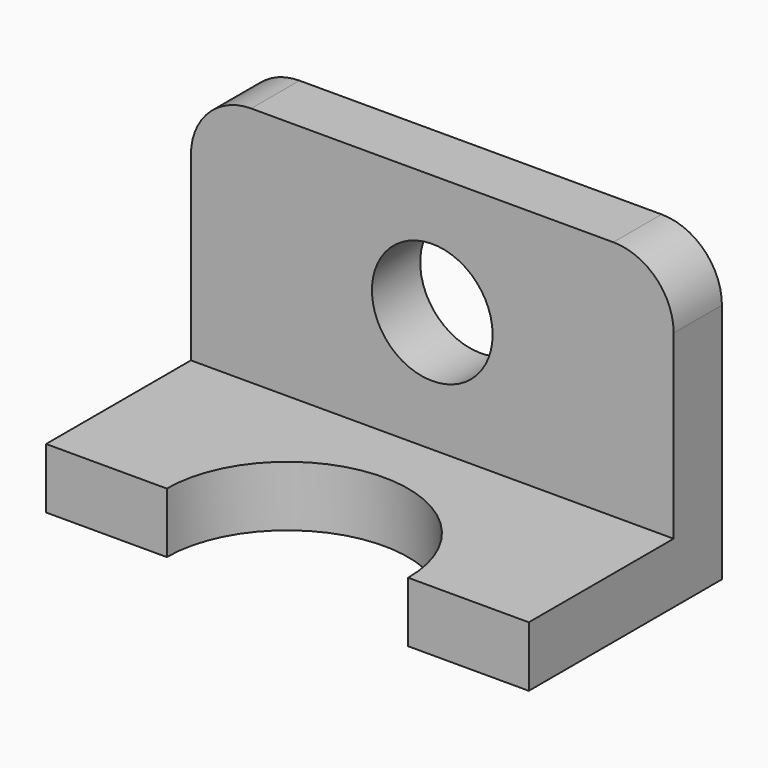
from build123d import *

# Parameters (mm, degrees)
F0_W     = 101.6
F0_H     = 63.5
F1_DEPTH = 50.8
F2_W     = 63.5
F2_H     = 76.2
F3_DEPTH = 101.601
F4_R     = 12.7
F5_DEPTH = 12.701
F6_R     = 25.4
F7_DEPTH = 12.701
F8_R     = 12.7


with BuildPart() as f1:
    # F0 (on Front) → F1 (new body)
    with BuildSketch(Plane.XZ):
        with Locations((22.687874, 31.203055)):
            Rectangle(F0_W, F0_H)
        with Locations((22.687874, 31.203055)):
            Rectangle(F0_W, F0_H)
    extrude(amount=F1_DEPTH)

    # F2 (on face) → F3 (cut, through all)
    with BuildSketch(Plane.YZ.offset(73.487874)):
        with Locations((-44.45, 50.253055)):
            Rectangle(F2_W, F2_H)
    extrude(amount=-F3_DEPTH, mode=Mode.SUBTRACT)

    # F4 (on face) → F5 (cut, through all)
    with BuildSketch(Plane.XZ.offset(12.7)):
        with Locations((22.687874, 37.553055)):
            Circle(F4_R)
    extrude(amount=-F5_DEPTH, mode=Mode.SUBTRACT)

    # F6 (on face) → F7 (cut, through all)
    with BuildSketch(Plane.XY.offset(12.153055)):
        with Locations((22.687874, -50.8)):
            Circle(F6_R)
    extrude(amount=-F7_DEPTH, mode=Mode.SUBTRACT)

    # F8
    f8_edges = [f1.edges().sort_by_distance(p)[0] for p in [
        (-28.112126, -6.35, 62.953055),
        (73.487874, -6.35, 62.953055),
    ]]
    fillet(f8_edges, radius=F8_R)


solid = f1.part
